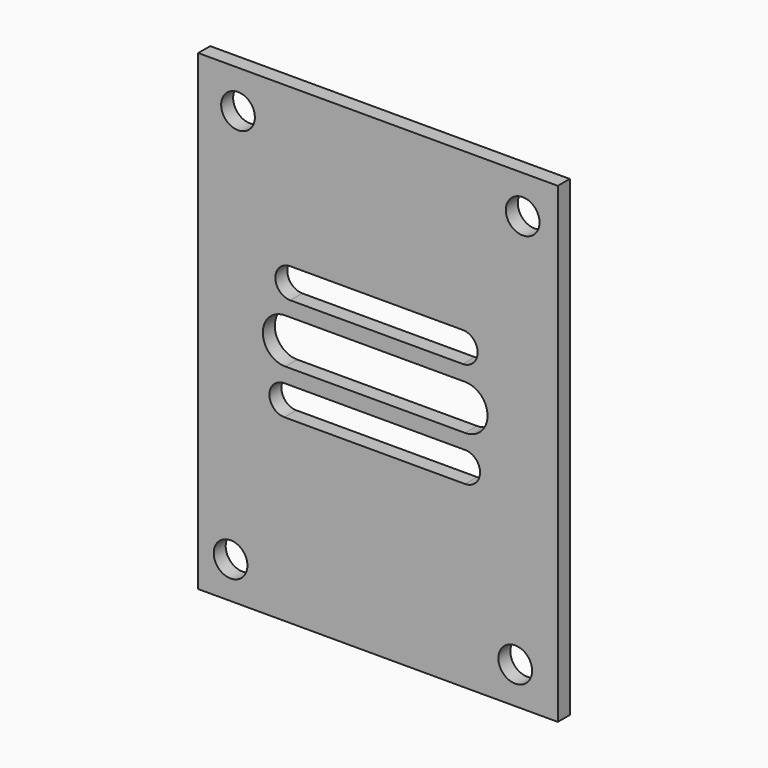
from build123d import *

# Parameters (mm, degrees)
F0_W     = 48
F0_H     = 63
F0_R     = 2.25
F1_DEPTH = 2


with BuildPart() as f1:
    # F0 (on Front) → F1 (new body)
    with BuildSketch(Plane.XZ):
        with Locations((24, 31.5)):
            Rectangle(F0_W, F0_H)
        with Locations((4.319704, 4.899902)):
            Circle(F0_R, mode=Mode.SUBTRACT)
        with BuildLine():
            ThreePointArc((11.502249, 23.937898), (9.502249, 25.937898), (11.502249, 27.937898))
            Line((11.502249, 27.937898), (35.620832, 27.937898))
            ThreePointArc((35.620832, 27.937898), (37.620832, 25.937898), (35.620832, 23.937898))
            Line((35.620832, 23.937898), (11.502249, 23.937898))
        make_face(mode=Mode.SUBTRACT)
        with Locations((42.319704, 4.899902)):
            Circle(F0_R, mode=Mode.SUBTRACT)
        with BuildLine():
            ThreePointArc((11.620832, 29.937898), (8.620832, 32.937898), (11.620832, 35.937898))
            Line((11.620832, 35.937898), (35.620832, 35.937898))
            ThreePointArc((35.620832, 35.937898), (38.620832, 32.937898), (35.620832, 29.937898))
            Line((35.620832, 29.937898), (11.620832, 29.937898))
        make_face(mode=Mode.SUBTRACT)
        with BuildLine():
            ThreePointArc((12.296626, 37.937898), (10.296626, 39.937898), (12.296626, 41.937898))
            Line((12.296626, 41.937898), (35.302188, 41.937898))
            ThreePointArc((35.302188, 41.937898), (37.302188, 39.937898), (35.302188, 37.937898))
            Line((35.302188, 37.937898), (12.296626, 37.937898))
        make_face(mode=Mode.SUBTRACT)
        with Locations((5.310922, 57.899902)):
            Circle(F0_R, mode=Mode.SUBTRACT)
        with Locations((43.310922, 57.899902)):
            Circle(F0_R, mode=Mode.SUBTRACT)
    extrude(amount=F1_DEPTH)


solid = f1.part
